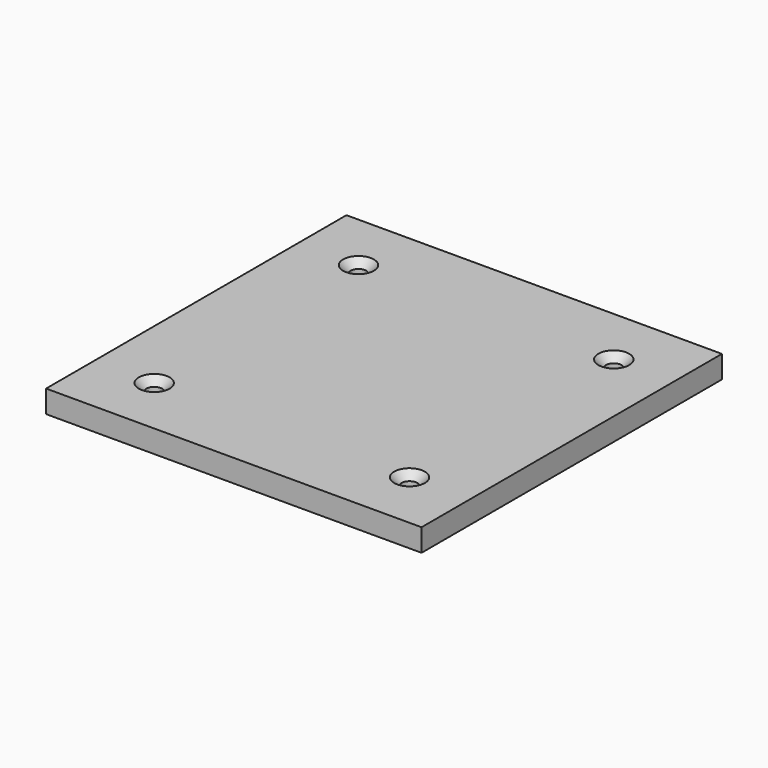
from build123d import *

# Parameters (mm, degrees)
SKETCH_W     = 50
SKETCH_H     = 50
PAD_DEPTH    = 3
SKETCH001_R  = 1.05
POCKET_DEPTH = 3.001
CHAMFER_SIZE = 1


with BuildPart() as part:
    # Sketch → Pad (new body)
    with BuildSketch(Plane.XY):
        Rectangle(SKETCH_W, SKETCH_H)
    extrude(amount=PAD_DEPTH)

    # Sketch001 (on Face6 of Pad) → Pocket (cut, through all)
    with BuildSketch(Plane.XY.offset(3)):
        with Locations((-17, 17)):
            Circle(SKETCH001_R)
        with Locations((17, 17)):
            Circle(SKETCH001_R)
        with Locations((17, -17)):
            Circle(SKETCH001_R)
        with Locations((-17, -17)):
            Circle(SKETCH001_R)
    extrude(amount=-POCKET_DEPTH, mode=Mode.SUBTRACT)

    # Chamfer
    chamfer_edges = [part.edges().sort_by_distance(p)[0] for p in [
        (-18.05, 17, 3),
        (15.95, 17, 3),
        (15.95, -17, 3),
        (-18.05, -17, 3),
    ]]
    chamfer(chamfer_edges, length=CHAMFER_SIZE)


solid = part.part
